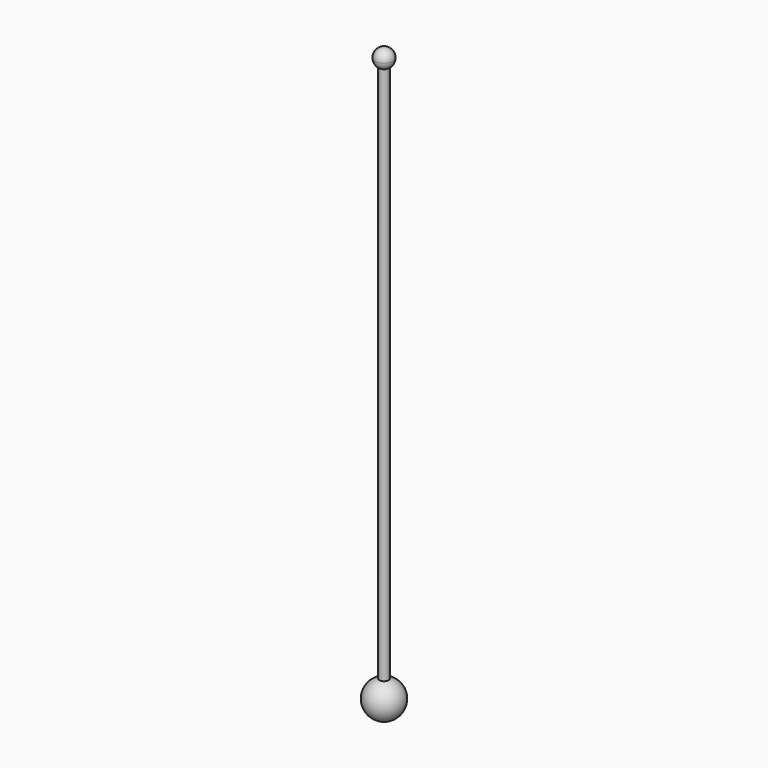
from build123d import *


with BuildPart() as f1:
    # F0 (on Front) → F1 (revolve)
    with BuildSketch(Plane.XZ):
        with BuildLine():
            ThreePointArc((19.05, 787.4), (15.3302561211, 796.3802561211), (6.35, 800.1))
            Line((6.35, 800.1), (6.35, 787.4))
            Line((6.35, 787.4), (12.7, 787.4))
            Line((12.7, 787.4), (12.7, 776.4014773719))
            ThreePointArc((12.7, 776.4014773719), (17.3485226281, 781.05), (19.05, 787.4))
        make_face()
        with BuildLine():
            Line((6.35, 787.4), (6.35, 774.7))
            ThreePointArc((6.35, 774.7), (9.6370018728, 775.1327420061), (12.7, 776.4014773719))
            Line((12.7, 776.4014773719), (12.7, 787.4))
            Line((12.7, 787.4), (6.35, 787.4))
        make_face()
        with BuildLine():
            Line((6.35, 774.7), (6.35, 25.4))
            ThreePointArc((6.35, 25.4), (9.5505090291, 25.1975542852), (12.7, 24.5934442484))
            Line((12.7, 24.5934442484), (12.7, 776.4014773719))
            ThreePointArc((12.7, 776.4014773719), (9.6370018728, 775.1327420061), (6.35, 774.7))
        make_face()
        with BuildLine():
            Line((6.35, 25.4), (6.35, 0))
            Line((6.35, 0), (12.7, 0))
            Line((12.7, 0), (12.7, 24.5934442484))
            ThreePointArc((12.7, 24.5934442484), (9.5505090291, 25.1975542852), (6.35, 25.4))
        make_face()
        with BuildLine():
            Line((12.7, 0), (6.35, 0))
            Line((6.35, 0), (6.35, -25.4))
            ThreePointArc((6.35, -25.4), (24.3105122421, -17.9605122421), (31.75, 0))
            ThreePointArc((31.75, 0), (26.4304631421, 15.5542598667), (12.7, 24.5934442484))
            Line((12.7, 24.5934442484), (12.7, 0))
        make_face()
    revolve(axis=Axis((6.35, 0, 387.35), (0, 0, 1)))


solid = f1.part
